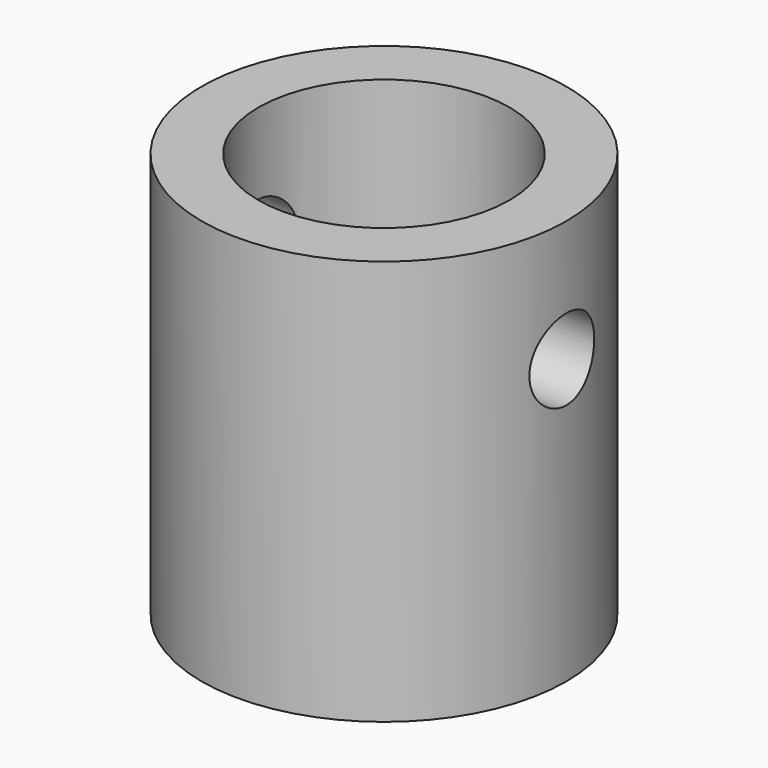
from build123d import *

# Parameters (mm, degrees)
SKETCH003_R     = 1
PAD001_DEPTH    = 5
SKETCH_R        = 4.5
PAD_DEPTH       = 10
SKETCH001_R     = 3.1
POCKET_DEPTH    = 6.5
POCKET001_DEPTH = 3.501


with BuildPart() as hole:
    # Sketch003 → Pad001 (new body, symmetric)
    with BuildSketch(Plane.YZ):
        with Locations((0, 7)):
            Circle(SKETCH003_R)
    extrude(amount=PAD001_DEPTH, both=True)


with BuildPart() as cut:
    # Sketch (on Part) → Pad (new body)
    with BuildSketch(Plane.XY):
        Circle(SKETCH_R)
    extrude(amount=PAD_DEPTH)

    # Sketch001 (on Face3 of Pad) → Pocket (cut)
    with BuildSketch(Plane.XY.offset(10)):
        Circle(SKETCH001_R)
    extrude(amount=-POCKET_DEPTH, mode=Mode.SUBTRACT)

    # Sketch002 (on Face5 of Pocket) → Pocket001 (cut, through all)
    with BuildSketch(Plane.XY.offset(3.5)):
        with BuildLine():
            Line((2.25, 2.132487), (2.25, -2.367513))
            ThreePointArc((-2.25, -2.367513), (0, -3.266132), (2.25, -2.367513))
            Line((-2.25, -2.367513), (-2.25, 2.132487))
            ThreePointArc((2.25, 2.132487), (0, 3.1), (-2.25, 2.132487))
        make_face()
    extrude(amount=-POCKET001_DEPTH, mode=Mode.SUBTRACT)

    # Cut: cut Hole
    add(hole.part, mode=Mode.SUBTRACT)


solid = cut.part
